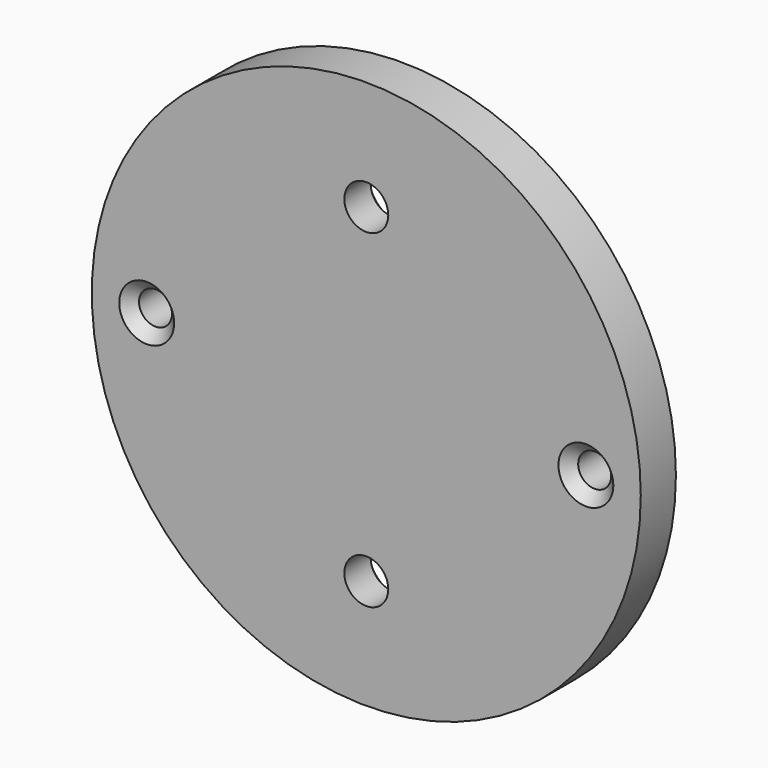
from build123d import *

# Parameters (mm, degrees)
F0_R     = 25
F0_R_2   = 1.5
F1_DEPTH = 4
F2_SIZE  = 1
F3_R     = 2
F4_DEPTH = 4.001
F5_SIZE  = 1


with BuildPart() as f1:
    # F0 (on Front) → F1 (new body)
    with BuildSketch(Plane.XZ):
        Circle(F0_R)
        with Locations((-20, 0)):
            Circle(F0_R_2, mode=Mode.SUBTRACT)
        with Locations((20, 0)):
            Circle(F0_R_2, mode=Mode.SUBTRACT)
    extrude(amount=F1_DEPTH)

    # F2
    f2_edges = [f1.edges().sort_by_distance(p)[0] for p in [
        (-21.5, -4, 0),
        (18.5, -4, 0),
    ]]
    chamfer(f2_edges, length=F2_SIZE)

    # F3 (on face) → F4 (cut, through all)
    with BuildSketch(Plane.XZ.offset(4)):
        with Locations((0, 15)):
            Circle(F3_R)
        with Locations((0, -15)):
            Circle(F3_R)
    extrude(amount=-F4_DEPTH, mode=Mode.SUBTRACT)

    # F5
    f5_edges = [f1.edges().sort_by_distance(p)[0] for p in [
        (-2, 0, 15),
        (-2, 0, -15),
    ]]
    chamfer(f5_edges, length=F5_SIZE)


solid = f1.part
